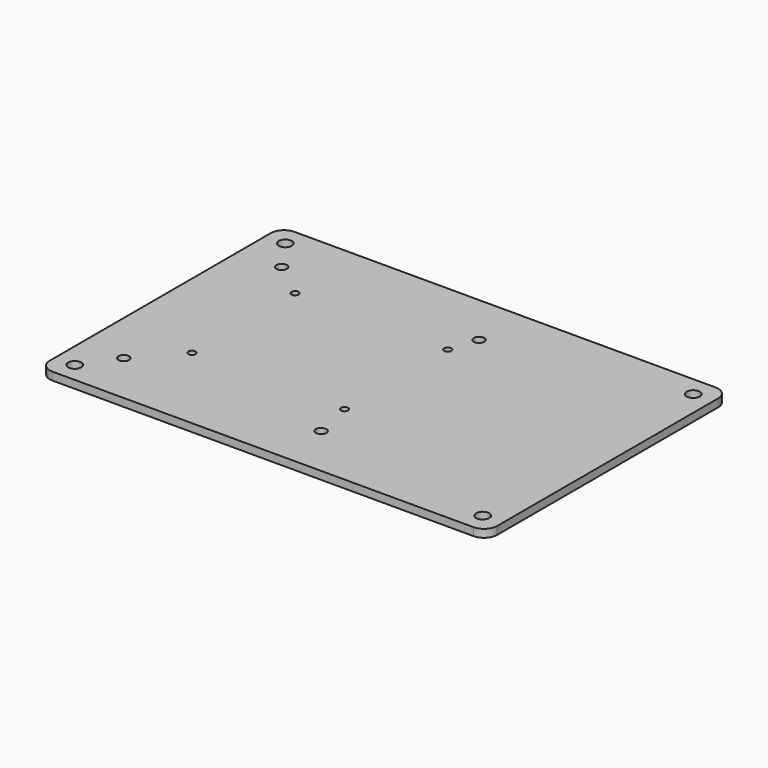
from build123d import *

# Parameters (mm, degrees)
F0_W     = 170
F0_H     = 115
F0_R     = 2.5
F0_R_2   = 2
F0_R_3   = 1.375
F1_DEPTH = 3
F2_R     = 5


with BuildPart() as f1:
    # F0 (on Top) → F1 (new body)
    with BuildSketch(Plane.XY):
        Rectangle(F0_W, F0_H)
        with Locations((-77.5, -50)):
            Circle(F0_R, mode=Mode.SUBTRACT)
        with Locations((-68.885475, -37.5)):
            Circle(F0_R_2, mode=Mode.SUBTRACT)
        with Locations((-55.22744, -22.182807)):
            Circle(F0_R_3, mode=Mode.SUBTRACT)
        with Locations((6.114525, -37.5)):
            Circle(F0_R_2, mode=Mode.SUBTRACT)
        with Locations((77.5, -50)):
            Circle(F0_R, mode=Mode.SUBTRACT)
        with Locations((2.77256, -22.182807)):
            Circle(F0_R_3, mode=Mode.SUBTRACT)
        with Locations((-55.22744, 26.817193)):
            Circle(F0_R_3, mode=Mode.SUBTRACT)
        with Locations((-68.885475, 37.5)):
            Circle(F0_R_2, mode=Mode.SUBTRACT)
        with Locations((-77.5, 50)):
            Circle(F0_R, mode=Mode.SUBTRACT)
        with Locations((2.77256, 26.817193)):
            Circle(F0_R_3, mode=Mode.SUBTRACT)
        with Locations((6.114525, 37.5)):
            Circle(F0_R_2, mode=Mode.SUBTRACT)
        with Locations((77.5, 50)):
            Circle(F0_R, mode=Mode.SUBTRACT)
    extrude(amount=F1_DEPTH)

    # F2
    f2_edges = [f1.edges().sort_by_distance(p)[0] for p in [
        (-85, 57.5, 1.5),
        (85, -57.5, 1.5),
        (85, 57.5, 1.5),
        (-85, -57.5, 1.5),
    ]]
    fillet(f2_edges, radius=F2_R)


solid = f1.part
